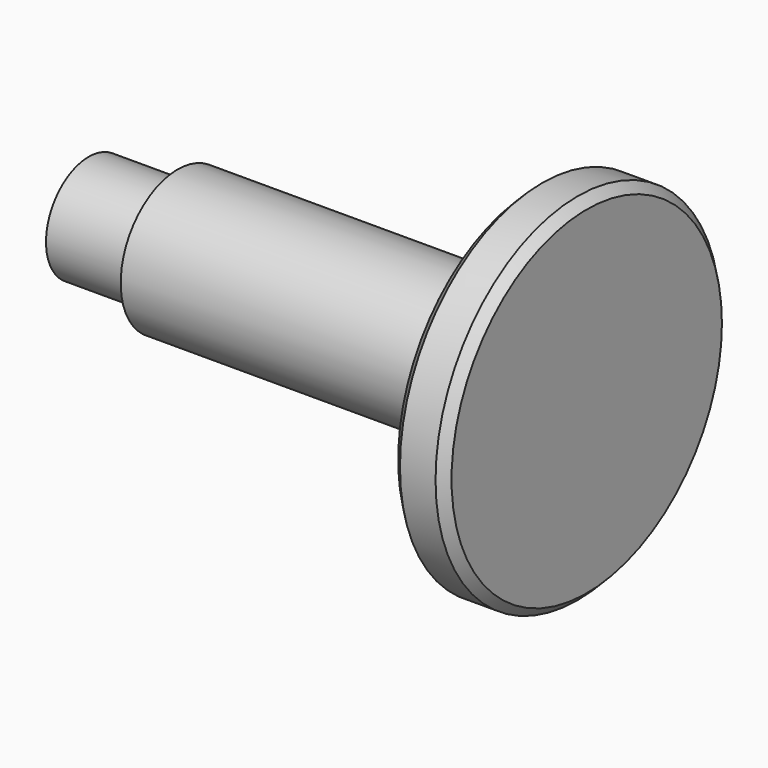
from build123d import *

# Parameters (mm, degrees)
F2_SIZE = 0.5


with BuildPart() as f1:
    # F0 (on Top) → F1 (revolve)
    with BuildSketch(Plane.XY):
        Polygon((0, 3), (0, 0), (28, 0), (28, 10), (25, 10), (25, 4), (5, 4), (5, 3), align=None)
    revolve(axis=Axis((27.980929, 0, 0), (1, 0, 0)))

    # F2
    f2_edges = [f1.edges().sort_by_distance(p)[0] for p in [
        (28, -10, 0),
        (25, -10, 0),
    ]]
    chamfer(f2_edges, length=F2_SIZE)


solid = f1.part
